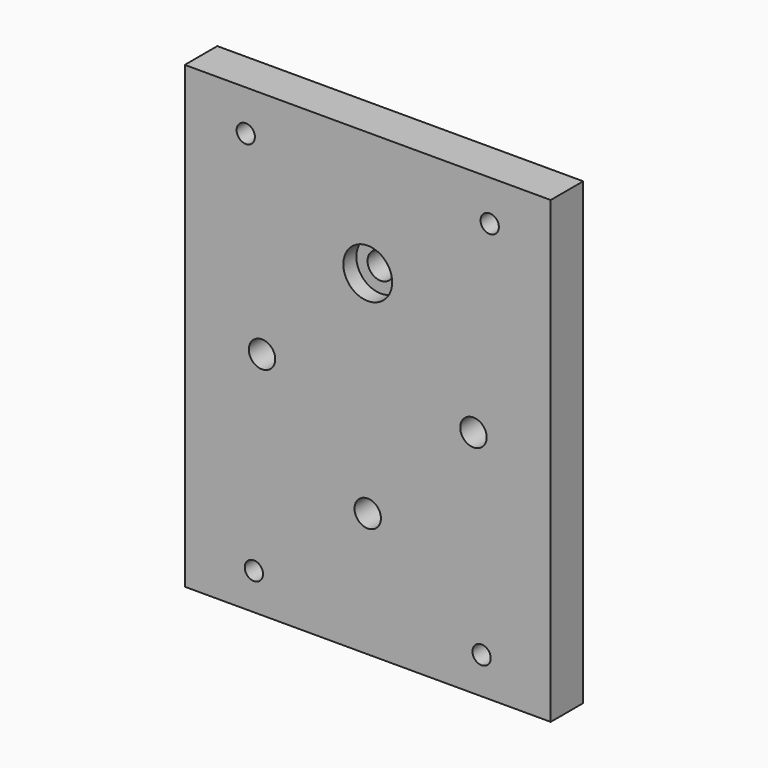
from build123d import *

# Parameters (mm, degrees)
SKETCH_W        = 90
SKETCH_H        = 10
PAD_DEPTH       = 113
SKETCH001_R     = 2.25
SKETCH001_R_2   = 3.25
POCKET_DEPTH    = 10.001
SKETCH002_R     = 6
POCKET001_DEPTH = 4


with BuildPart() as part:
    # Sketch → Pad (new body)
    with BuildSketch(Plane.XY):
        Rectangle(SKETCH_W, SKETCH_H)
    extrude(amount=PAD_DEPTH)

    # Sketch001 → Pocket (cut, through all)
    with BuildSketch(Plane.XZ.offset(5)):
        with Locations((-30, 103)):
            Circle(SKETCH001_R)
        with Locations((30, 103)):
            Circle(SKETCH001_R)
        with Locations((28, 9)):
            Circle(SKETCH001_R)
        with Locations((-28, 9)):
            Circle(SKETCH001_R)
        with Locations((0, 82.5)):
            Circle(SKETCH001_R_2)
        with Locations((0, 30.5)):
            Circle(SKETCH001_R_2)
        with Locations((26, 56.5)):
            Circle(SKETCH001_R_2)
        with Locations((-26, 56.5)):
            Circle(SKETCH001_R_2)
    extrude(amount=-POCKET_DEPTH, mode=Mode.SUBTRACT)

    # Sketch002 → Pocket001 (cut)
    with BuildSketch(Plane.XZ.offset(5)):
        with Locations((0, 82.5)):
            Circle(SKETCH002_R)
    extrude(amount=-POCKET001_DEPTH, mode=Mode.SUBTRACT)


solid = part.part
